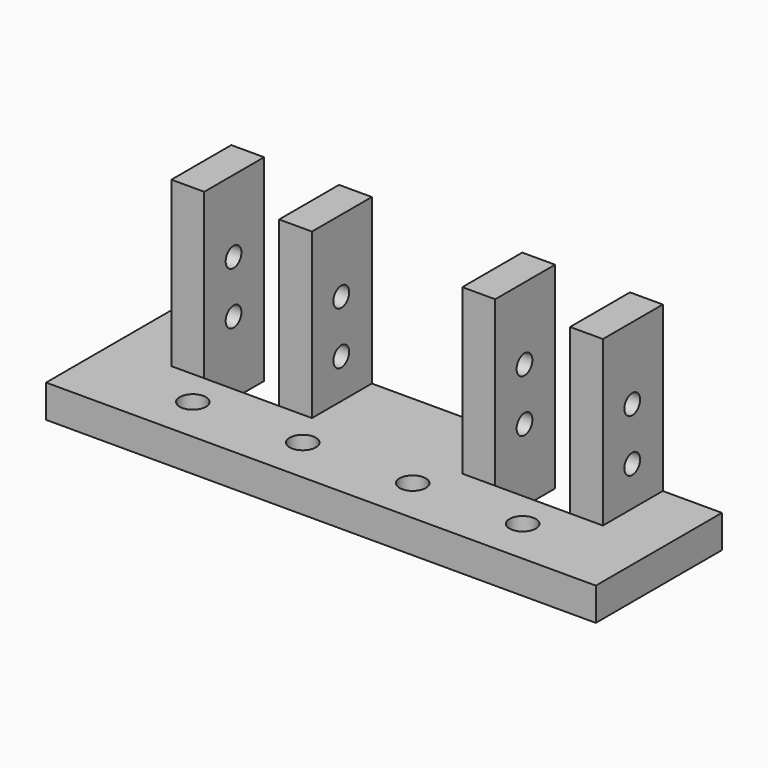
from build123d import *

# Parameters (mm, degrees)
SKETCH_W        = 83.7
SKETCH_H        = 24
SKETCH_R        = 2
PAD_DEPTH       = 5
SKETCH001_W     = 11.4
SKETCH001_H     = 11.4
POCKET_DEPTH    = 5.001
SKETCH002_W     = 5
SKETCH002_H     = 11.4
PAD001_DEPTH    = 25
SKETCH003_R     = 1.5
POCKET001_DEPTH = 74.701


with BuildPart() as part:
    # Sketch → Pad (new body)
    with BuildSketch(Plane.XY):
        with Locations((41.85, 12)):
            Rectangle(SKETCH_W, SKETCH_H)
        with Locations((33.48, 7)):
            Circle(SKETCH_R, mode=Mode.SUBTRACT)
        with Locations((16.74, 7)):
            Circle(SKETCH_R, mode=Mode.SUBTRACT)
        with Locations((50.22, 7)):
            Circle(SKETCH_R, mode=Mode.SUBTRACT)
        with Locations((66.96, 7)):
            Circle(SKETCH_R, mode=Mode.SUBTRACT)
    extrude(amount=PAD_DEPTH)

    # Sketch001 → Pocket (cut, through all)
    with BuildSketch(Plane.XY.offset(5)):
        with Locations((64, 18.3)):
            Rectangle(SKETCH001_W, SKETCH001_H)
        with Locations((19.7, 18.3)):
            Rectangle(SKETCH001_W, SKETCH001_H)
    extrude(amount=-POCKET_DEPTH, mode=Mode.SUBTRACT)

    # Sketch002 → Pad001 (new body)
    with BuildSketch(Plane.XY.offset(5)):
        with Locations((11.5, 18.3)):
            Rectangle(SKETCH002_W, SKETCH002_H)
        with Locations((27.9, 18.3)):
            Rectangle(SKETCH002_W, SKETCH002_H)
        with Locations((55.8, 18.3)):
            Rectangle(SKETCH002_W, SKETCH002_H)
        with Locations((72.2, 18.3)):
            Rectangle(SKETCH002_W, SKETCH002_H)
    extrude(amount=PAD001_DEPTH)

    # Sketch003 → Pocket001 (cut, through all)
    with BuildSketch(Plane.YZ.offset(74.7)):
        with Locations((18.179388, 19)):
            Circle(SKETCH003_R)
        with Locations((18.179388, 11)):
            Circle(SKETCH003_R)
    extrude(amount=-POCKET001_DEPTH, mode=Mode.SUBTRACT)


solid = part.part
